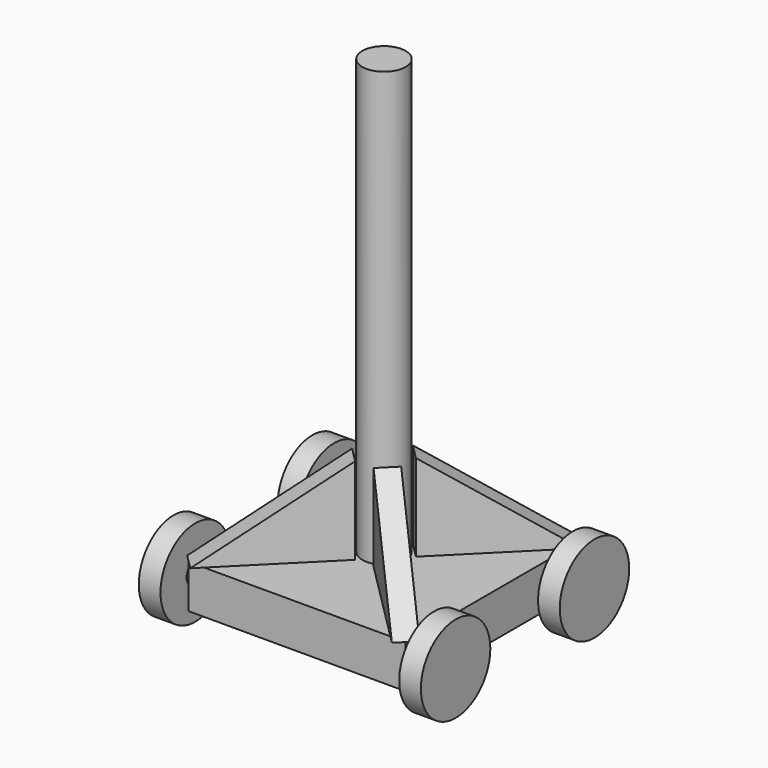
from build123d import *

# Parameters (mm, degrees)
F0_R      = 5
F1_DEPTH  = 100
F2_W      = 50
F2_H      = 50
F3_DEPTH  = 10
F4_R      = 2.5
F5_DEPTH  = 2.5
F6_R      = 10
F7_DEPTH  = 5
F8_R      = 10
F9_DEPTH  = 5
F10_R     = 2.5
F11_DEPTH = 2.5
F12_R     = 10
F13_DEPTH = 5
F14_R     = 10
F15_DEPTH = 5
F20_DEPTH = 2.5
F24_DEPTH = 2.5
F26_DEPTH = 2.5


with BuildPart() as f1:
    # F0 (on Top) → F1 (new body)
    with BuildSketch(Plane.XY):
        Circle(F0_R)
    extrude(amount=F1_DEPTH)

    # F2 (on Top) → F3 (join)
    with BuildSketch(Plane.XY):
        Rectangle(F2_W, F2_H)
    extrude(amount=-F3_DEPTH)

    # F4 (on face) → F5 (join)
    with BuildSketch(Plane.YZ.offset(25)):
        with Locations((-20, -5)):
            Circle(F4_R)
        with Locations((20, -5)):
            Circle(F4_R)
    extrude(amount=F5_DEPTH)

    # F6 (on face) → F7 (join)
    with BuildSketch(Plane.YZ.offset(27.5)):
        with Locations((-20, -5)):
            Circle(F6_R)
    extrude(amount=F7_DEPTH)

    # F8 (on face) → F9 (join)
    with BuildSketch(Plane.YZ.offset(27.5)):
        with Locations((20, -5)):
            Circle(F8_R)
    extrude(amount=F9_DEPTH)

    # F10 (on face) → F11 (join)
    with BuildSketch(Plane(origin=(-25, 0, 0), x_dir=(0, -1, 0), z_dir=(-1, 0, 0))):
        with Locations((-20, -5)):
            Circle(F10_R)
        with Locations((20, -5)):
            Circle(F10_R)
    extrude(amount=F11_DEPTH)

    # F12 (on face) → F13 (join)
    with BuildSketch(Plane(origin=(-27.5, 0, 0), x_dir=(0, -1, 0), z_dir=(-1, 0, 0))):
        with Locations((-20, -5)):
            Circle(F12_R)
    extrude(amount=F13_DEPTH)

    # F14 (on face) → F15 (join)
    with BuildSketch(Plane(origin=(-27.5, 0, 0), x_dir=(0, -1, 0), z_dir=(-1, 0, 0))):
        with Locations((20, -5)):
            Circle(F14_R)
    extrude(amount=F15_DEPTH)

    # F19 (on 3pt) → F20 (join, symmetric)
    with BuildSketch(Plane(origin=(0, 0, 0), x_dir=(0.7071067812, 0.7071067812, 0), z_dir=(0.7071067812, -0.7071067812, 0))):
        Polygon((-5.5, 20), (-35.3553390593, 0), (-5.5, 0), align=None)
    extrude(amount=F20_DEPTH, both=True)

    # F23 (on 3pt) → F24 (join, symmetric)
    with BuildSketch(Plane(origin=(0, 0, 0), x_dir=(-0.7071067812, 0.7071067812, 0), z_dir=(0.7071067812, 0.7071067812, 0))):
        Polygon((5.5, 20), (5.5, 0), (35.3553390593, 0), align=None)
        Polygon((-35.3553390593, 0), (-5.5, 0), (-5.5, 20), align=None)
    extrude(amount=F24_DEPTH, both=True)

    # F25 (on 3pt) → F26 (join, symmetric)
    with BuildSketch(Plane(origin=(0, 0, 0), x_dir=(0.7071067812, 0.7071067812, 0), z_dir=(0.7071067812, -0.7071067812, 0))):
        Polygon((5.5, 20), (5.5, 0), (35.3553390593, 0), align=None)
    extrude(amount=F26_DEPTH, both=True)


solid = f1.part
